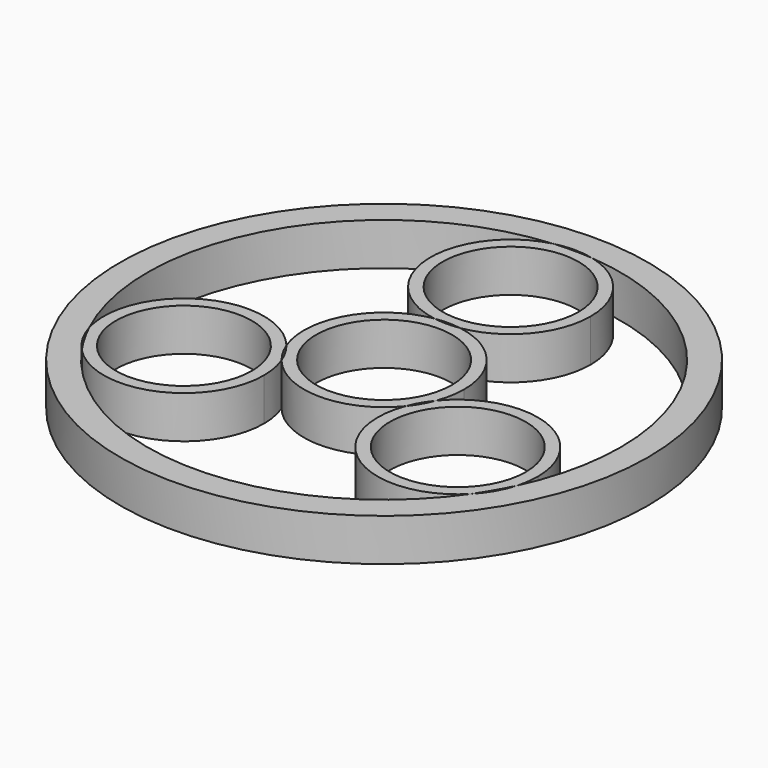
from build123d import *

# Parameters (mm, degrees)
F0_R     = 11.2
F1_DEPTH = 7
F0_R_2   = 43.5


with BuildPart() as f1:
    # F0 (on Top) → F1 (new body)
    with BuildSketch(Plane.XY):
        with BuildLine():
            ThreePointArc((12.3397678435, -4.6872304796), (12.9831609313, -2.3827572753), (13.2, 0))
            ThreePointArc((13.2, 0), (10.0523685502, 8.5551087971), (2.110623253, 13.0301676691))
            ThreePointArc((2.110623253, 13.0301676691), (0, 12.8603353381), (-2.110623253, 13.0301676691))
            ThreePointArc((-2.110623253, 13.0301676691), (-11.43153533, 6.6), (-12.3397678435, -4.6872304796))
            ThreePointArc((-12.3397678435, -4.6872304796), (-11.137377104, -6.4301676691), (-10.2291445905, -8.3429371895))
            ThreePointArc((-10.2291445905, -8.3429371895), (0, -13.2), (10.2291445905, -8.3429371895))
            ThreePointArc((10.2291445905, -8.3429371895), (11.137377104, -6.4301676691), (12.3397678435, -4.6872304796))
        make_face()
        Circle(F0_R, mode=Mode.SUBTRACT)
    extrude(amount=F1_DEPTH)


with BuildPart() as f1b:
    # F0 (on Top) → F1, piece 2 (new body)
    with BuildSketch(Plane.XY):
        with BuildLine():
            ThreePointArc((35.7689124339, -13.0301676691), (26.9969645681, -0.5950418435), (12.3397678435, -4.6872304796))
            ThreePointArc((12.3397678435, -4.6872304796), (11.43153533, -6.6), (10.2291445905, -8.3429371895))
            ThreePointArc((10.2291445905, -8.3429371895), (15.4981714856, -24.1766748548), (32.0676372836, -22.1960951306))
            ThreePointArc((32.0676372836, -22.1960951306), (33.7749907476, -19.5), (35.2562008897, -16.6733409616))
            ThreePointArc((35.2562008897, -16.6733409616), (35.6401060982, -14.8697046194), (35.7689124339, -13.0301676691))
        make_face()
        with Locations((22.5689124339, -13.0301676691)):
            Circle(F0_R, mode=Mode.SUBTRACT)
    extrude(amount=F1_DEPTH)


with BuildPart() as f1c:
    # F0 (on Top) → F1, piece 3 (new body)
    with BuildSketch(Plane.XY):
        with BuildLine():
            ThreePointArc((-2.110623253, 13.0301676691), (0, 13.2), (2.110623253, 13.0301676691))
            ThreePointArc((2.110623253, 13.0301676691), (10.0523685502, 17.505226541), (13.2, 26.0603353381))
            ThreePointArc((13.2, 26.0603353381), (10.4002172958, 34.1890179005), (3.1885636061, 38.8694360923))
            ThreePointArc((3.1885636061, 38.8694360923), (0, 39), (-3.1885636061, 38.8694360923))
            ThreePointArc((-3.1885636061, 38.8694360923), (-13.1885288605, 25.5101476461), (-2.110623253, 13.0301676691))
        make_face()
        with Locations((0, 26.0603353381)):
            Circle(F0_R, mode=Mode.SUBTRACT)
    extrude(amount=F1_DEPTH)


with BuildPart() as f1d:
    # F0 (on Top) → F1, piece 4 (new body)
    with BuildSketch(Plane.XY):
        with BuildLine():
            ThreePointArc((-10.2291445905, -8.3429371895), (-11.43153533, -6.6), (-12.3397678435, -4.6872304796))
            ThreePointArc((-12.3397678435, -4.6872304796), (-28.6867003461, -1.3334727913), (-35.2562008897, -16.6733409616))
            ThreePointArc((-35.2562008897, -16.6733409616), (-33.7749907476, -19.5), (-32.0676372836, -22.1960951306))
            ThreePointArc((-32.0676372836, -22.1960951306), (-17.6264013321, -25.2699219153), (-9.3689124339, -13.0301676691))
            ThreePointArc((-9.3689124339, -13.0301676691), (-9.5857515027, -10.6474103938), (-10.2291445905, -8.3429371895))
        make_face()
        with Locations((-22.5689124339, -13.0301676691)):
            Circle(F0_R, mode=Mode.SUBTRACT)
    extrude(amount=F1_DEPTH)


with BuildPart() as f1e:
    # F0 (on Top) → F1, piece 5 (new body)
    with BuildSketch(Plane.XY):
        Circle(F0_R_2)
        with BuildLine():
            ThreePointArc((-35.2562008897, -16.6733409616), (-33.7749907476, 19.5), (-3.1885636061, 38.8694360923))
            ThreePointArc((-3.1885636061, 38.8694360923), (0, 39.2603353381), (3.1885636061, 38.8694360923))
            ThreePointArc((3.1885636061, 38.8694360923), (28.6823463182, 26.4258019685), (39, 0))
            ThreePointArc((39, 0), (38.052541536, -8.544242661), (35.2562008897, -16.6733409616))
            ThreePointArc((35.2562008897, -16.6733409616), (34.0004477639, -19.6301676691), (32.0676372836, -22.1960951306))
            ThreePointArc((32.0676372836, -22.1960951306), (0, -39), (-32.0676372836, -22.1960951306))
            ThreePointArc((-32.0676372836, -22.1960951306), (-34.0004477639, -19.6301676691), (-35.2562008897, -16.6733409616))
        make_face(mode=Mode.SUBTRACT)
    extrude(amount=F1_DEPTH)


solid = Compound([f1.part, f1b.part, f1c.part, f1d.part, f1e.part])
